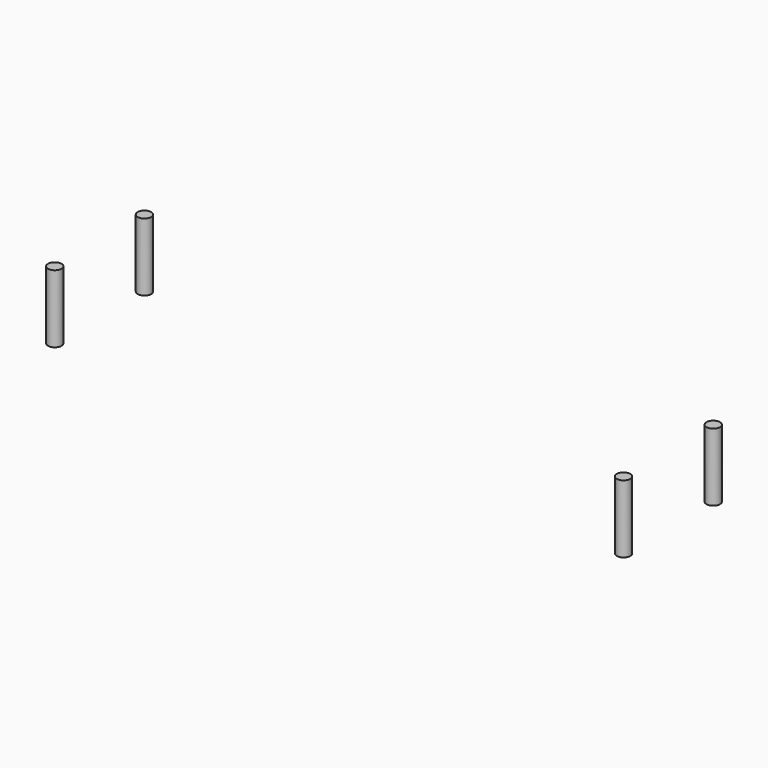
from build123d import *

# Parameters (mm, degrees)
CYLINDER021_R     = 1
CYLINDER021_DEPTH = 10
CYLINDER023_R     = 1
CYLINDER023_DEPTH = 10
CYLINDER022_R     = 1
CYLINDER022_DEPTH = 10
CYLINDER020_R     = 1
CYLINDER020_DEPTH = 10


with BuildPart() as cylinder021:
    # Cylinder021 → Cylinder021 (new body)
    with BuildSketch(Plane(origin=(41.91, 8.26, 0), x_dir=(1, 0, 0), z_dir=(0, 0, 1))):
        Circle(CYLINDER021_R)
    extrude(amount=CYLINDER021_DEPTH)


with BuildPart() as cylinder023:
    # Cylinder023 → Cylinder023 (new body)
    with BuildSketch(Plane(origin=(-41.91, 8.255, 0), x_dir=(1, 0, 0), z_dir=(0, 0, 1))):
        Circle(CYLINDER023_R)
    extrude(amount=CYLINDER023_DEPTH)


with BuildPart() as cylinder022:
    # Cylinder022 → Cylinder022 (new body)
    with BuildSketch(Plane(origin=(-41.91, -8.26, 0), x_dir=(1, 0, 0), z_dir=(0, 0, 1))):
        Circle(CYLINDER022_R)
    extrude(amount=CYLINDER022_DEPTH)


with BuildPart() as fusion008:
    # Cylinder020 → Cylinder020 (new body)
    with BuildSketch(Plane(origin=(41.91, -8.26, 0), x_dir=(1, 0, 0), z_dir=(0, 0, 1))):
        Circle(CYLINDER020_R)
    extrude(amount=CYLINDER020_DEPTH)

    # Fusion008: union Cylinder021, Cylinder023, Cylinder022
    add(cylinder021.part)
    add(cylinder023.part)
    add(cylinder022.part)


solid = fusion008.part
